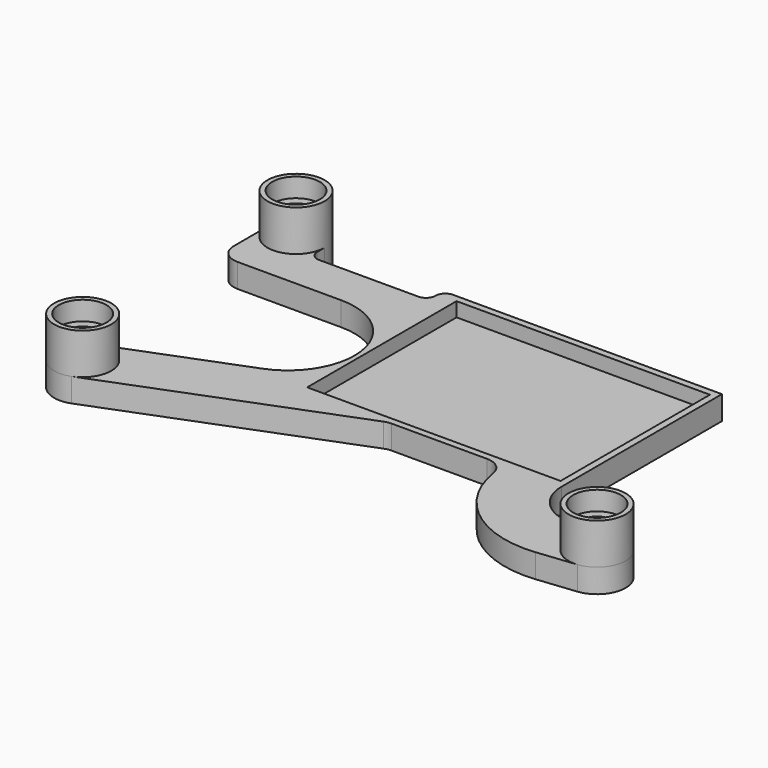
from build123d import *

# Parameters (mm, degrees)
SKETCH003_R   = 1.6
PAD_DEPTH     = 2.5
SKETCH_R      = 3
SKETCH_R_2    = 1.6
PAD001_DEPTH  = 2.3
SKETCH004_R   = 3
SKETCH004_R_2 = 2.5
PAD002_DEPTH  = 2
SKETCH005_W   = 26.6
SKETCH005_H   = 19.6
POCKET_DEPTH  = 1.5


with BuildPart() as part:
    # Sketch003 → Pad (new body)
    with BuildSketch(Plane.XY):
        with BuildLine():
            ThreePointArc((-28.087018, -11.203861), (-29.796139, -15.087018), (-25.912982, -16.796139))
            Line((-25.912982, -16.796139), (-0.93534, -7.085908))
            ThreePointArc((-0.210661, -6.95), (-0.579317, -6.984271), (-0.93534, -7.085908))
            Line((9.827812, -6.95), (-0.210661, -6.95))
            ThreePointArc((11.802562, -8.6332), (11.125194, -7.427896), (9.827812, -6.95))
            ThreePointArc((11.802562, -8.6332), (15.79003, -15.309423), (23.276895, -17.411493))
            Line((23.276895, -17.411493), (27.316256, -16.983284))
            ThreePointArc((27.316256, -16.983284), (29.983284, -13.683744), (26.683744, -11.016716))
            Line((22.644383, -11.444926), (26.683744, -11.016716))
            ThreePointArc((17.67, -6.97), (19.160409, -10.315499), (22.644383, -11.444926))
            Line((17.67, 14.05), (17.67, -6.97))
            Line((17.67, 14.05), (-10.570113, 14.05))
            ThreePointArc((-10.570113, 14.05), (-11.282503, 13.751783), (-11.57, 13.035))
            ThreePointArc((-12.569887, 12.02), (-11.857497, 12.318217), (-11.57, 13.035))
            Line((-23, 12.02), (-12.569887, 12.02))
            ThreePointArc((-24, 13.02), (-23.707107, 12.312893), (-23, 12.02))
            Line((-24, 13.02), (-24, 14))
            ThreePointArc((-24, 14), (-27, 17), (-30, 14))
            Line((-30, 14), (-30, 9.57))
            ThreePointArc((-30, 9.57), (-29.414214, 8.155786), (-28, 7.57))
            Line((-17.12, 7.57), (-28, 7.57))
            ThreePointArc((-14.583624, -5.954324), (-10.239947, 1.860298), (-17.12, 7.57))
            Line((-28.087018, -11.203861), (-14.583624, -5.954324))
        make_face()
        with Locations((-27, 14)):
            Circle(SKETCH003_R, mode=Mode.SUBTRACT)
        with Locations((27, -14)):
            Circle(SKETCH003_R, mode=Mode.SUBTRACT)
        with Locations((-27, -14)):
            Circle(SKETCH003_R, mode=Mode.SUBTRACT)
    extrude(amount=PAD_DEPTH)

    # Sketch → Pad001 (new body)
    with BuildSketch(Plane.XY.offset(2.5)):
        with Locations((-27, 14)):
            Circle(SKETCH_R)
        with Locations((-27, 14)):
            Circle(SKETCH_R_2, mode=Mode.SUBTRACT)
        with Locations((27, -14)):
            Circle(SKETCH_R)
        with Locations((27, -14)):
            Circle(SKETCH_R_2, mode=Mode.SUBTRACT)
        with Locations((-27, -14)):
            Circle(SKETCH_R)
        with Locations((-27, -14)):
            Circle(SKETCH_R_2, mode=Mode.SUBTRACT)
    extrude(amount=PAD001_DEPTH)

    # Sketch004 → Pad002 (new body)
    with BuildSketch(Plane.XY.offset(4.8)):
        with Locations((-27, 14)):
            Circle(SKETCH004_R)
        with Locations((-27, 14)):
            Circle(SKETCH004_R_2, mode=Mode.SUBTRACT)
        with Locations((-27, -14)):
            Circle(SKETCH004_R)
        with Locations((-27, -14)):
            Circle(SKETCH004_R_2, mode=Mode.SUBTRACT)
        with Locations((27, -14)):
            Circle(SKETCH004_R)
        with Locations((27, -14)):
            Circle(SKETCH004_R_2, mode=Mode.SUBTRACT)
    extrude(amount=PAD002_DEPTH)

    # Sketch005 → Pocket (cut)
    with BuildSketch(Plane.XY.offset(2.5)):
        with Locations((3.67, 3.55)):
            Rectangle(SKETCH005_W, SKETCH005_H)
    extrude(amount=-POCKET_DEPTH, mode=Mode.SUBTRACT)


solid = part.part
